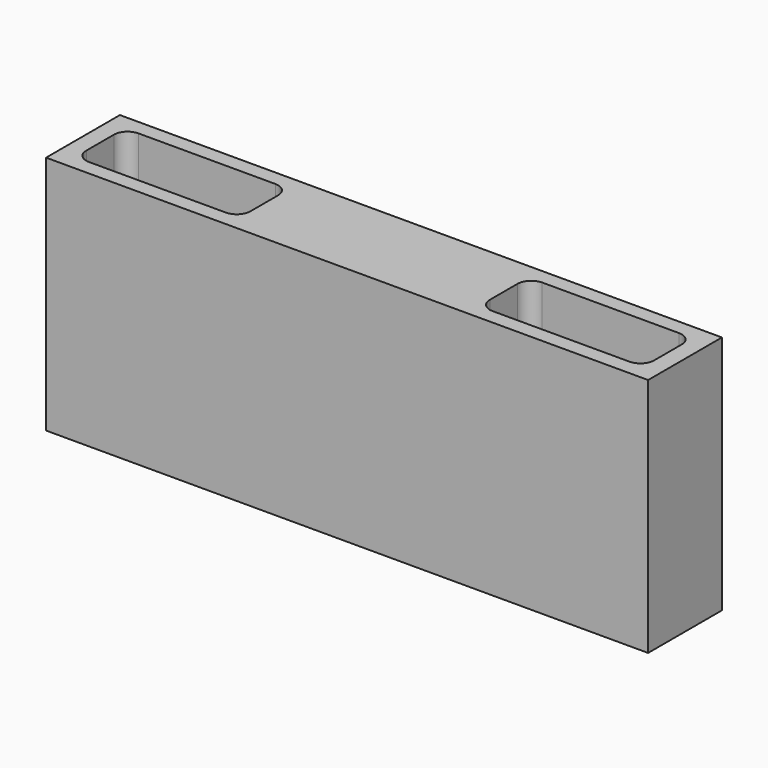
from build123d import *

# Parameters (mm, degrees)
F0_W     = 220
F0_H     = 33.712024
F1_DEPTH = 87.8


with BuildPart() as f1:
    # F0 (on Top) → F1 (new body)
    with BuildSketch(Plane.XY):
        Rectangle(F0_W, F0_H)
        with BuildLine():
            Line((-98.752904, 11.31518), (-48.752904, 11.31518))
            ThreePointArc((-48.752904, 11.31518), (-45.21737, 9.850714), (-43.752904, 6.31518))
            Line((-43.752904, 6.31518), (-43.752904, -6.31518))
            ThreePointArc((-43.752904, -6.31518), (-45.21737, -9.850714), (-48.752904, -11.31518))
            Line((-48.752904, -11.31518), (-98.752904, -11.31518))
            ThreePointArc((-98.752904, -11.31518), (-102.288438, -9.850714), (-103.752904, -6.31518))
            Line((-103.752904, -6.31518), (-103.752904, 6.31518))
            ThreePointArc((-103.752904, 6.31518), (-102.288438, 9.850714), (-98.752904, 11.31518))
        make_face(mode=Mode.SUBTRACT)
        with BuildLine():
            ThreePointArc((98.752904, 11.31518), (102.288438, 9.850714), (103.752904, 6.31518))
            Line((103.752904, 6.31518), (103.752904, -6.31518))
            ThreePointArc((103.752904, -6.31518), (102.288438, -9.850714), (98.752904, -11.31518))
            Line((98.752904, -11.31518), (48.752904, -11.31518))
            ThreePointArc((48.752904, -11.31518), (45.21737, -9.850714), (43.752904, -6.31518))
            Line((43.752904, -6.31518), (43.752904, 6.31518))
            ThreePointArc((43.752904, 6.31518), (45.21737, 9.850714), (48.752904, 11.31518))
            Line((48.752904, 11.31518), (98.752904, 11.31518))
        make_face(mode=Mode.SUBTRACT)
    extrude(amount=F1_DEPTH)


solid = f1.part
